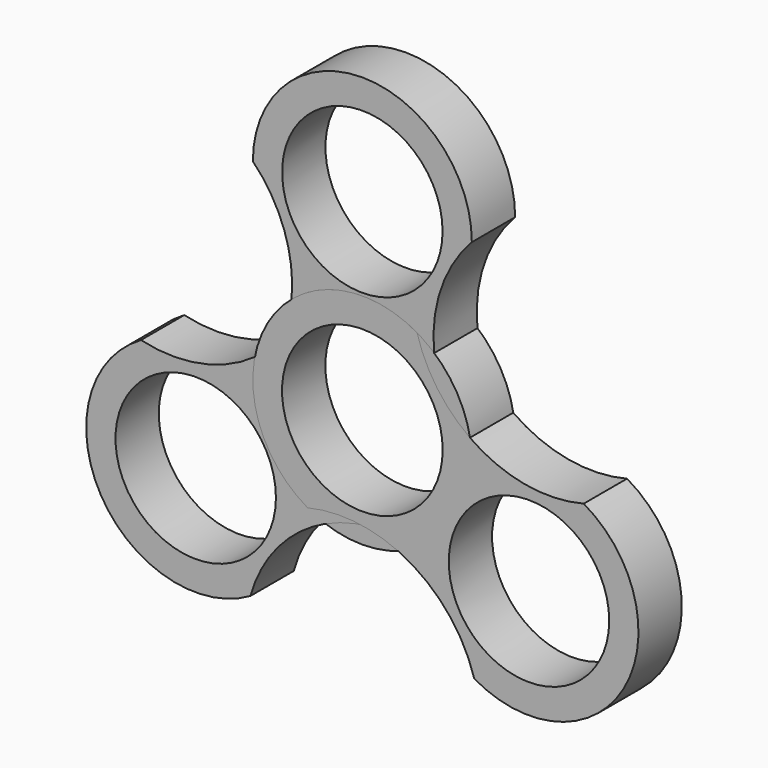
from build123d import *

# Parameters (mm, degrees)
F0_R     = 11.129093
F1_DEPTH = 7.5
F2_ANGLE = 120
F3_ANGLE = -120


with BuildPart() as f1:
    # F0 (on Front) → F1 (new body)
    with BuildSketch(Plane.XZ):
        with BuildLine():
            Line((11.114947, 26.660487), (15.170878, 26.660487))
            ThreePointArc((15.170878, 26.660487), (0, 41.831365), (-15.170878, 26.660487))
            Line((-15.170878, 26.660487), (-11.114947, 26.660487))
            ThreePointArc((-11.114947, 26.660487), (0, 37.775434), (11.114947, 26.660487))
        make_face()
        with BuildLine():
            ThreePointArc((-9.810846, 11.57164), (0.085715, 15.170636), (9.940976, 11.460041))
            ThreePointArc((9.940976, 11.460041), (10.90367, 19.628744), (15.170878, 26.660487))
            Line((15.170878, 26.660487), (11.114947, 26.660487))
            ThreePointArc((11.114947, 26.660487), (0, 15.54554), (-11.114947, 26.660487))
            Line((-11.114947, 26.660487), (-15.170878, 26.660487))
            ThreePointArc((-15.170878, 26.660487), (-10.828401, 19.706622), (-9.810846, 11.57164))
        make_face()
        with BuildLine():
            ThreePointArc((15.170878, 0), (11.597749, 5.292746), (9.940976, 11.460041))
            ThreePointArc((9.940976, 11.460041), (0.085715, 15.170636), (-9.810846, 11.57164))
            ThreePointArc((-9.810846, 11.57164), (-11.493732, 5.323945), (-15.170878, 0))
            ThreePointArc((-15.170878, 0), (0, -15.170878), (15.170878, 0))
        make_face()
        Circle(F0_R, mode=Mode.SUBTRACT)
    extrude(amount=F1_DEPTH)


with BuildPart() as f2_1:
    # F2: copy of F1
    add(f1.part.rotate(Axis((0, -7.5, 0), (0, -1, 0)), F2_ANGLE))


with BuildPart() as f3_1:
    # F3: copy of F1
    add(f1.part.rotate(Axis((0, -7.5, 0), (0, -1, 0)), F3_ANGLE))


solid = Compound([f1.part, f2_1.part, f3_1.part])
